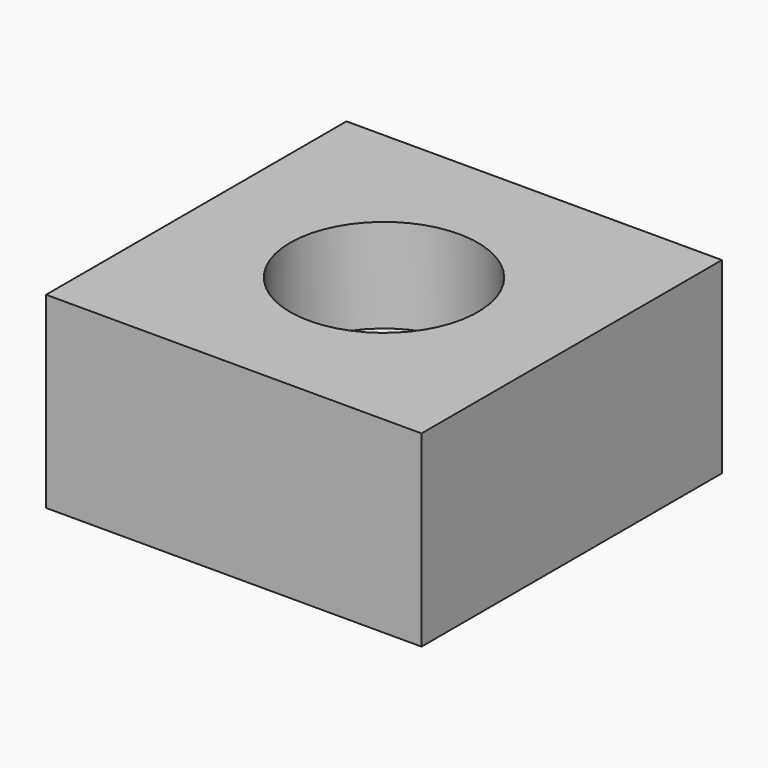
from build123d import *

# Parameters (mm, degrees)
F0_W     = 254
F0_H     = 254
F1_DEPTH = 127
F4_D     = 127
F4_DEPTH = 63.5
F4_TIP   = 38.1546493083


with BuildPart() as f1:
    # F0 (on Top) → F1 (new body)
    with BuildSketch(Plane.XY):
        Rectangle(F0_W, F0_H)
    extrude(amount=F1_DEPTH)

    # F4
    with Locations(Plane.XY.offset(127)):
        with Locations((0, 0)):
            Hole(F4_D / 2, depth=F4_DEPTH)
            with Locations((0, 0, -(F4_DEPTH + F4_TIP / 2))):  # 118° drill point
                Cone(0, F4_D / 2, F4_TIP, mode=Mode.SUBTRACT)


solid = f1.part
